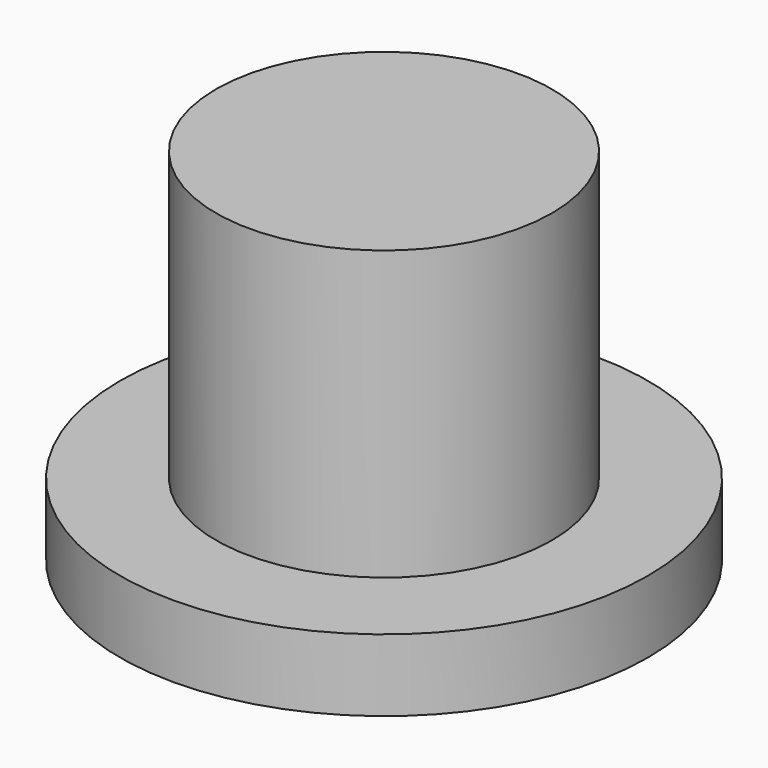
from build123d import *

# Parameters (mm, degrees)
SKETCH_R     = 2.75
PAD_DEPTH    = 0.75
SKETCH001_R  = 1.75
PAD001_DEPTH = 3


with BuildPart() as part:
    # Sketch → Pad (new body)
    with BuildSketch(Plane.XY):
        Circle(SKETCH_R)
    extrude(amount=PAD_DEPTH)

    # Sketch001 (on Face3 of Pad) → Pad001 (join)
    with BuildSketch(Plane.XY.offset(0.75)):
        Circle(SKETCH001_R)
    extrude(amount=PAD001_DEPTH)


solid = part.part
